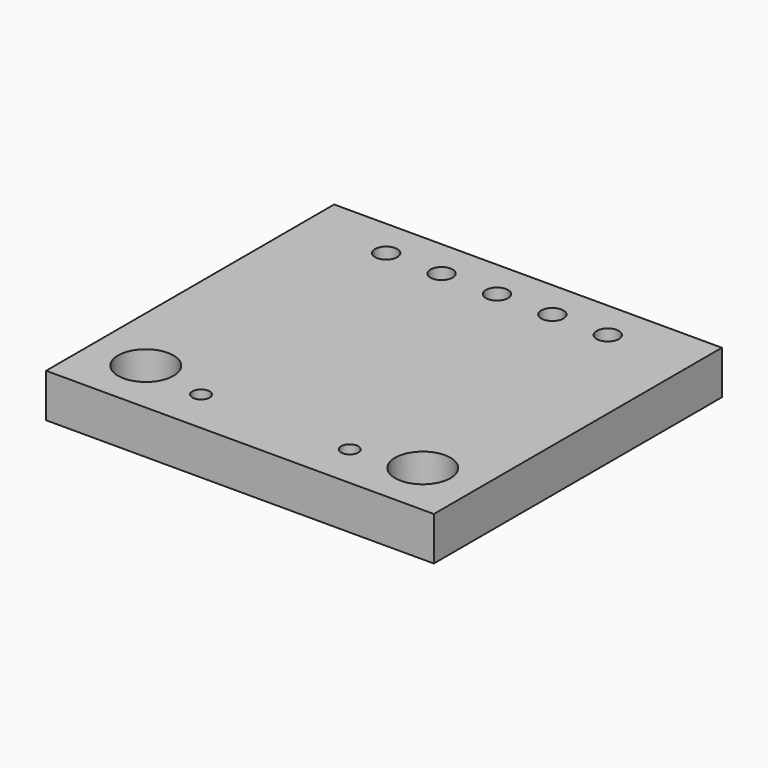
from build123d import *

# Parameters (mm, degrees)
F0_W     = 17.78
F0_H     = 16.51
F0_R     = 1.27
F0_R_2   = 0.3937
F0_R_3   = 0.508
F1_DEPTH = 2


with BuildPart() as f1:
    # F0 (on Top) → F1 (new body)
    with BuildSketch(Plane.XY):
        with Locations((8.89, 8.255)):
            Rectangle(F0_W, F0_H)
        with Locations((2.54, 2.54)):
            Circle(F0_R, mode=Mode.SUBTRACT)
        with Locations((5.482141, 2.03)):
            Circle(F0_R_2, mode=Mode.SUBTRACT)
        with Locations((12.297859, 2.03)):
            Circle(F0_R_2, mode=Mode.SUBTRACT)
        with Locations((15.24, 2.54)):
            Circle(F0_R, mode=Mode.SUBTRACT)
        with Locations((3.81, 14.73)):
            Circle(F0_R_3, mode=Mode.SUBTRACT)
        with Locations((6.35, 14.73)):
            Circle(F0_R_3, mode=Mode.SUBTRACT)
        with Locations((8.89, 14.73)):
            Circle(F0_R_3, mode=Mode.SUBTRACT)
        with Locations((11.43, 14.73)):
            Circle(F0_R_3, mode=Mode.SUBTRACT)
        with Locations((13.97, 14.73)):
            Circle(F0_R_3, mode=Mode.SUBTRACT)
    extrude(amount=F1_DEPTH)


solid = f1.part
